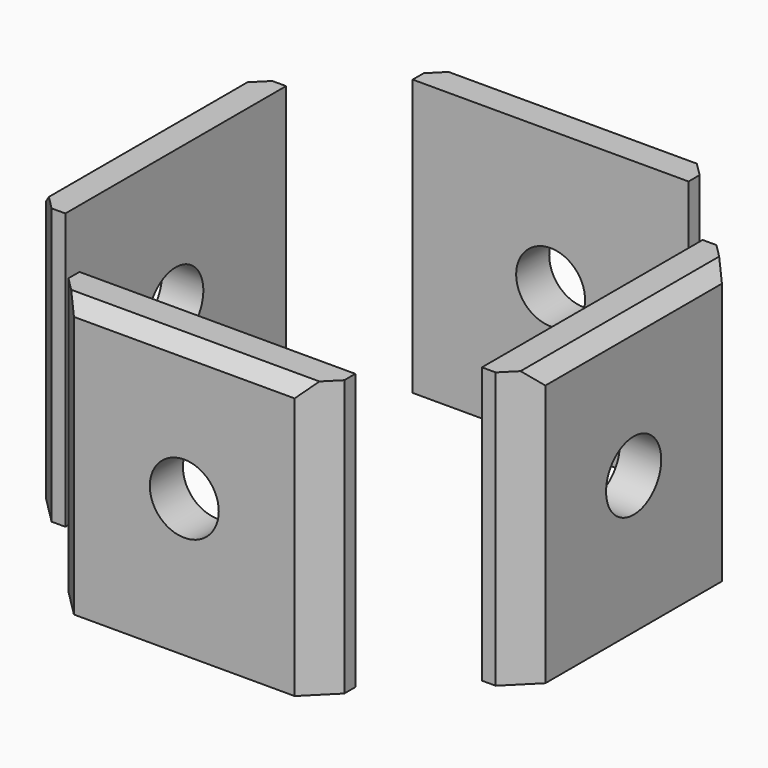
from build123d import *

# Parameters (mm, degrees)
CYLINDER1811_R               = 2.5
CYLINDER1811_DEPTH           = 10
CYLINDER1813_R               = 2.5
CYLINDER1813_DEPTH           = 10
CYLINDER1813_ROLL_ANGLE      = 90
CYLINDER1813_PLACEMENT_ANGLE = 180
CYLINDER1812_R               = 2.5
CYLINDER1812_DEPTH           = 10
CYLINDER1812_ROLL_ANGLE      = 90
CYLINDER1812_PITCH_ANGLE     = 0
CYLINDER1812_PLACEMENT_ANGLE = -90
CYLINDER1809_R               = 2.5
CYLINDER1809_DEPTH           = 10
BOX007_W                     = 20
BOX007_H                     = 3
BOX007_DEPTH                 = 20
BOX006_W                     = 20
BOX006_H                     = 3
BOX006_DEPTH                 = 20
BOX008_W                     = 20
BOX008_H                     = 3
BOX008_DEPTH                 = 20
BOX005_W                     = 20
BOX005_H                     = 3
BOX005_DEPTH                 = 20
CHAMFER069_SIZE              = 2
CHAMFER070_SIZE              = 2
CHAMFER008_SIZE              = 1


with BuildPart() as obj1:
    # Cylinder1811 → Cylinder1811 (new body)
    with BuildSketch(Plane(origin=(12, 0, 30), x_dir=(0, 1, 0), z_dir=(1, 0, 0))):
        Circle(CYLINDER1811_R)
    extrude(amount=CYLINDER1811_DEPTH)


with BuildPart() as obj2:
    # Cylinder1813 → Cylinder1813 (new body)
    with BuildSketch(Plane.XY):
        Circle(CYLINDER1813_R)
    extrude(amount=CYLINDER1813_DEPTH)


with BuildPart() as obj2_1:
    # Cylinder1813 roll: moved
    add(obj2.part.rotate(Axis((0, 0, 0), (1, 0, 0)), CYLINDER1813_ROLL_ANGLE))


with BuildPart() as obj2_2:
    # Cylinder1813 placement: moved
    add(obj2_1.part.moved(Location((0, 12, 30))).rotate(Axis((0, 12, 30), (0, 0, 1)), CYLINDER1813_PLACEMENT_ANGLE))


with BuildPart() as obj3:
    # Cylinder1812 → Cylinder1812 (new body)
    with BuildSketch(Plane.XY):
        Circle(CYLINDER1812_R)
    extrude(amount=CYLINDER1812_DEPTH)


with BuildPart() as obj3_1:
    # Cylinder1812 roll: moved
    add(obj3.part.rotate(Axis((0, 0, 0), (1, 0, 0)), CYLINDER1812_ROLL_ANGLE))


with BuildPart() as obj3_2:
    # Cylinder1812 pitch: moved
    add(obj3_1.part.rotate(Axis((0, 0, 0), (0, 1, 0)), CYLINDER1812_PITCH_ANGLE))


with BuildPart() as obj3_3:
    # Cylinder1812 placement: moved
    add(obj3_2.part.moved(Location((-12, 0, 30))).rotate(Axis((-12, 0, 30), (0, 0, 1)), CYLINDER1812_PLACEMENT_ANGLE))


with BuildPart() as compound006:
    # Cylinder1809 → Cylinder1809 (new body)
    with BuildSketch(Plane(origin=(0, -12, 30), x_dir=(1, 0, 0), z_dir=(0, -1, 0))):
        Circle(CYLINDER1809_R)
    extrude(amount=CYLINDER1809_DEPTH)

    # Compound006: union obj1, obj2, obj3
    add(obj1.part)
    add(obj2_2.part)
    add(obj3_3.part)


with BuildPart() as compound006_1:
    # Compound006 placement: moved
    add(compound006.part.moved(Location((0, 0, -2))))


with BuildPart() as krychle007:
    # Box007 → Box007 (new body)
    with BuildSketch(Plane(origin=(-15.1, -10, 20), x_dir=(0, 1, 0), z_dir=(0, 0, 1))):
        with Locations((10, 1.5)):
            Rectangle(BOX007_W, BOX007_H)
    extrude(amount=BOX007_DEPTH)


with BuildPart() as krychle006:
    # Box006 → Box006 (new body)
    with BuildSketch(Plane(origin=(10, -15.1, 20), x_dir=(-1, 0, 0), z_dir=(0, 0, 1))):
        with Locations((10, 1.5)):
            Rectangle(BOX006_W, BOX006_H)
    extrude(amount=BOX006_DEPTH)


with BuildPart() as krychle008:
    # Box008 → Box008 (new body)
    with BuildSketch(Plane(origin=(15.1, 10, 20), x_dir=(0, -1, 0), z_dir=(0, 0, 1))):
        with Locations((10, 1.5)):
            Rectangle(BOX008_W, BOX008_H)
    extrude(amount=BOX008_DEPTH)


with BuildPart() as chamfer008:
    # Box005 → Box005 (new body)
    with BuildSketch(Plane(origin=(-10, 15.1, 20), x_dir=(1, 0, 0), z_dir=(0, 0, 1))):
        with Locations((10, 1.5)):
            Rectangle(BOX005_W, BOX005_H)
    extrude(amount=BOX005_DEPTH)

    # Compound005: union Krychle007, Krychle006, Krychle008
    add(krychle007.part)
    add(krychle006.part)
    add(krychle008.part)


with BuildPart() as chamfer008_1:
    # Compound005 placement: moved
    add(chamfer008.part.moved(Location((0, 0, -2))))

    # Cut004: cut Compound006
    add(compound006_1.part, mode=Mode.SUBTRACT)

    # Chamfer069
    chamfer069_edges = [chamfer008_1.edges().sort_by_distance(p)[0] for p in [
        (-10, 18.1, 28),
        (10, 18.1, 28),
        (-18.1, -10, 28),
        (-18.1, 10, 28),
        (-10, -18.1, 28),
    ]]
    chamfer(chamfer069_edges, length=CHAMFER069_SIZE)

    # Chamfer070
    chamfer070_edges = [chamfer008_1.edges().sort_by_distance(p)[0] for p in [
        (10, -18.1, 28),
        (18.1, 10, 28),
        (18.1, -10, 28),
    ]]
    chamfer(chamfer070_edges, length=CHAMFER070_SIZE)

    # Chamfer008
    chamfer008_edges = [chamfer008_1.edges().sort_by_distance(p)[0] for p in [
        (0, -18.1, 38),
        (18.1, 0, 38),
        (0, 18.1, 38),
        (-18.1, 0, 38),
    ]]
    chamfer(chamfer008_edges, length=CHAMFER008_SIZE)


with BuildPart() as chamfer008_2:
    # Chamfer008 placement: moved
    add(chamfer008_1.part.moved(Location((0, 0, -14))))


solid = chamfer008_2.part
